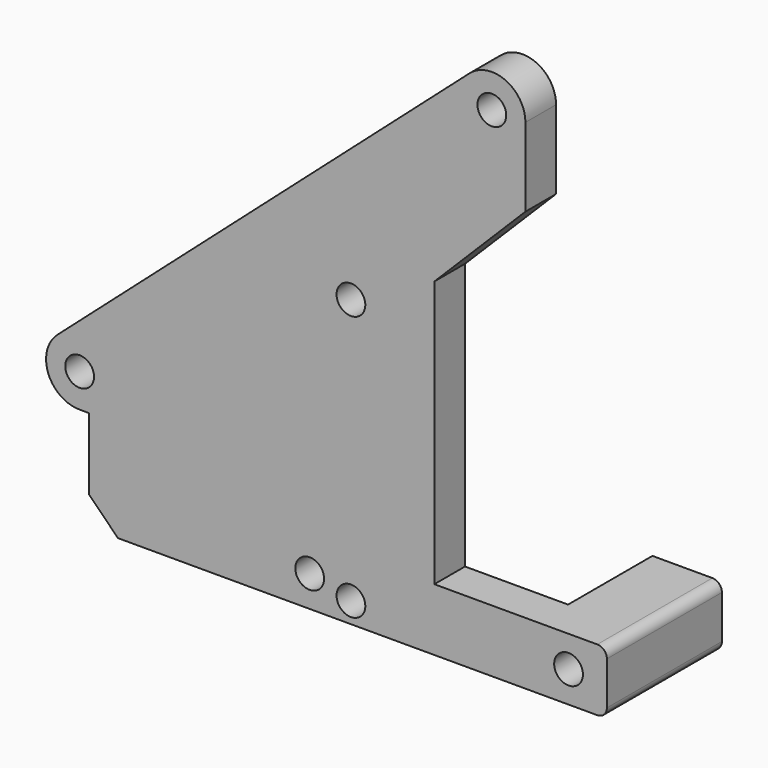
from build123d import *

# Parameters (mm, degrees)
CYLINDER035_R          = 1.5
CYLINDER035_DEPTH      = 30
CYLINDER035_ROLL_ANGLE = -90
CYLINDER034_R          = 1.5
CYLINDER034_DEPTH      = 30
CYLINDER034_ROLL_ANGLE = -90
BOX033_W               = 7.25
BOX033_H               = 12
BOX033_DEPTH           = 6.5
BOX032_W               = 7.25
BOX032_H               = 12
BOX032_DEPTH           = 6.5
SKETCH019_R            = 1.5
PAD017_DEPTH           = 4
FILLET027_R            = 1
CHAMFER008_SIZE        = 3


with BuildPart() as cylinder035:
    # Cylinder035 → Cylinder035 (new body)
    with BuildSketch(Plane.XY):
        Circle(CYLINDER035_R)
    extrude(amount=CYLINDER035_DEPTH)


with BuildPart() as cylinder035_1:
    # Cylinder035 roll: moved
    add(cylinder035.part.rotate(Axis((0, 0, 0), (1, 0, 0)), CYLINDER035_ROLL_ANGLE))


with BuildPart() as cylinder035_2:
    # Cylinder035 placement: moved
    add(cylinder035_1.part.moved(Location((-25, 27, -34.75))))


with BuildPart() as fusion031:
    # Cylinder034 → Cylinder034 (new body)
    with BuildSketch(Plane.XY):
        Circle(CYLINDER034_R)
    extrude(amount=CYLINDER034_DEPTH)


with BuildPart() as fusion031_1:
    # Cylinder034 roll: moved
    add(fusion031.part.rotate(Axis((0, 0, 0), (1, 0, 0)), CYLINDER034_ROLL_ANGLE))


with BuildPart() as fusion031_2:
    # Cylinder034 placement: moved
    add(fusion031_1.part.moved(Location((2, 27, -34.75))))

    # Fusion031: union Cylinder035
    add(cylinder035_2.part)


with BuildPart() as cube033:
    # Box033 → Box033 (new body)
    with BuildSketch(Plane(origin=(-29, 33, -38), x_dir=(1, 0, 0), z_dir=(0, 0, 1))):
        with Locations((3.625, 6)):
            Rectangle(BOX033_W, BOX033_H)
    extrude(amount=BOX033_DEPTH)


with BuildPart() as cube032:
    # Box032 → Box032 (new body)
    with BuildSketch(Plane(origin=(-1.25, 33, -38), x_dir=(1, 0, 0), z_dir=(0, 0, 1))):
        with Locations((3.625, 6)):
            Rectangle(BOX032_W, BOX032_H)
    extrude(amount=BOX032_DEPTH)


with BuildPart() as chamfer008:
    # Sketch019 → Pad017 (new body)
    with BuildSketch(Plane(origin=(0, 30, 0), x_dir=(-1, 0, 0), z_dir=(0, 1, 0))):
        with BuildLine():
            ThreePointArc((8.31768, 16.622663), (4.561577, 17.190758), (2.5, 13.999999))
            Line((2.5, 5.8), (2.5, 13.999999))
            Line((12, -3.7), (2.5, 5.8))
            Line((12, -3.7), (12, -31.5))
            Line((12, -31.5), (-6, -31.5))
            Line((-6, -31.5), (-6, -38))
            Line((48, -38), (-6, -38))
            Line((48, -27.5), (48, -38))
            Line((48, -27.5), (48.999996, -27.5))
            ThreePointArc((48.999996, -27.5), (52.273323, -25.239096), (51.317689, -21.377346))
            Line((8.31768, 16.622663), (51.317689, -21.377346))
        make_face()
        with Locations((6, 14)):
            Circle(SKETCH019_R, mode=Mode.SUBTRACT)
        with Locations((49, -24)):
            Circle(SKETCH019_R, mode=Mode.SUBTRACT)
        with Locations((20.7, -35.85)):
            Circle(SKETCH019_R, mode=Mode.SUBTRACT)
        with Locations((20.7, -8.2)):
            Circle(SKETCH019_R, mode=Mode.SUBTRACT)
    extrude(amount=PAD017_DEPTH)

    # Fusion030: union Cube033, Cube032
    add(cube033.part)
    add(cube032.part)

    # Fillet027
    fillet027_edges = [chamfer008.edges().sort_by_distance(p)[0] for p in [
        (-29, 39.5, -31.5),
        (-29, 39.5, -38),
        (6, 37.5, -38),
        (6, 37.5, -31.5),
    ]]
    fillet(fillet027_edges, radius=FILLET027_R)

    # Cut038: cut Fusion031
    add(fusion031_2.part, mode=Mode.SUBTRACT)

    # Chamfer008
    chamfer008_edges = [chamfer008.edges().sort_by_distance(p)[0] for p in [
        (-48, 32, -38),
    ]]
    chamfer(chamfer008_edges, length=CHAMFER008_SIZE)


solid = chamfer008.part
